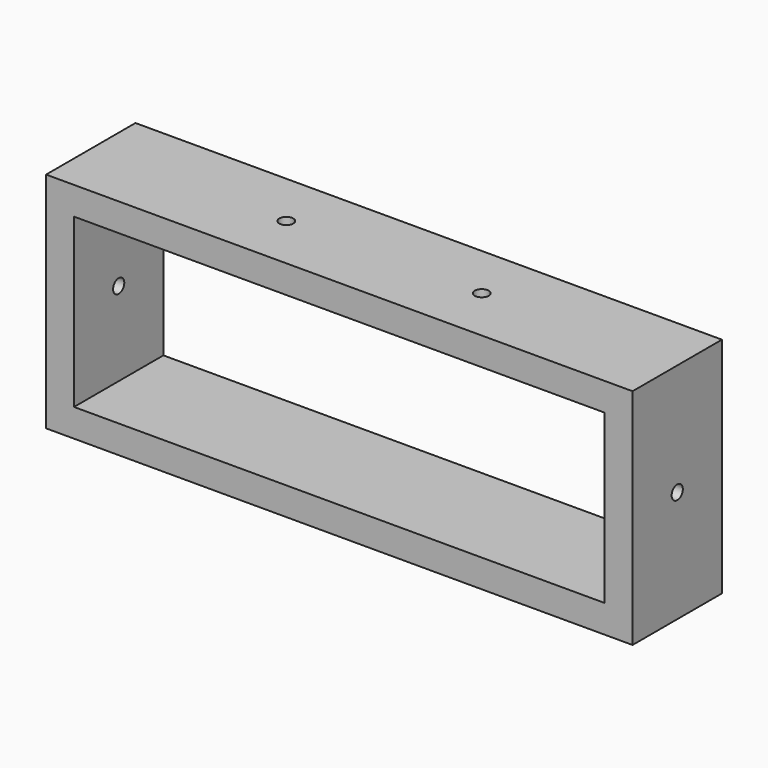
from build123d import *

# Parameters (mm, degrees)
F0_W          = 482.6
F0_H          = 25.4
F1_DEPTH      = 101.6
F2_W          = 482.6
F2_H          = 152.4
F3_DEPTH      = 101.6
F4_R          = 6.35
F5_DEPTH      = 266.701
F5_DEPTH_BACK = 266.701
F6_R          = 6.35
F7_DEPTH      = 25.4


with BuildPart() as f1:
    # F0 (on Front) → F1 (new body)
    with BuildSketch(Plane.XZ):
        Polygon((266.7, 101.6), (-266.7, 101.6), (-266.7, 76.2), (-241.3, 76.2), (241.3, 76.2), (266.7, 76.2), align=None)
        Polygon((-241.3, 76.2), (-266.7, 76.2), (-266.7, -101.6), (-241.3, -101.6), (-241.3, -76.2), align=None)
        Polygon((266.7, -101.6), (266.7, 76.2), (241.3, 76.2), (241.3, -76.2), (241.3, -101.6), align=None)
        with Locations((0, -88.9)):
            Rectangle(F0_W, F0_H)
        Polygon((266.7, 101.6), (-266.7, 101.6), (-266.7, 76.2), (-241.3, 76.2), (241.3, 76.2), (266.7, 76.2), align=None)
    extrude(amount=-F1_DEPTH)

    # F2 (on face) → F3 (cut)
    with BuildSketch(Plane.XZ):
        Rectangle(F2_W, F2_H)
    extrude(amount=-F3_DEPTH, mode=Mode.SUBTRACT)

    # F4 (on Right) → F5 (cut, two sides)
    with BuildSketch(Plane.YZ) as f5_sk:
        with Locations((50.8, 0)):
            Circle(F4_R)
    extrude(amount=F5_DEPTH, mode=Mode.SUBTRACT)
    extrude(f5_sk.sketch, amount=-F5_DEPTH_BACK, mode=Mode.SUBTRACT)

    # F6 (on face) → F7 (cut)
    with BuildSketch(Plane.XY.offset(101.6)):
        with Locations((-88.9, 50.8)):
            Circle(F6_R)
        with Locations((88.9, 50.8)):
            Circle(F6_R)
    extrude(amount=-F7_DEPTH, mode=Mode.SUBTRACT)


solid = f1.part
